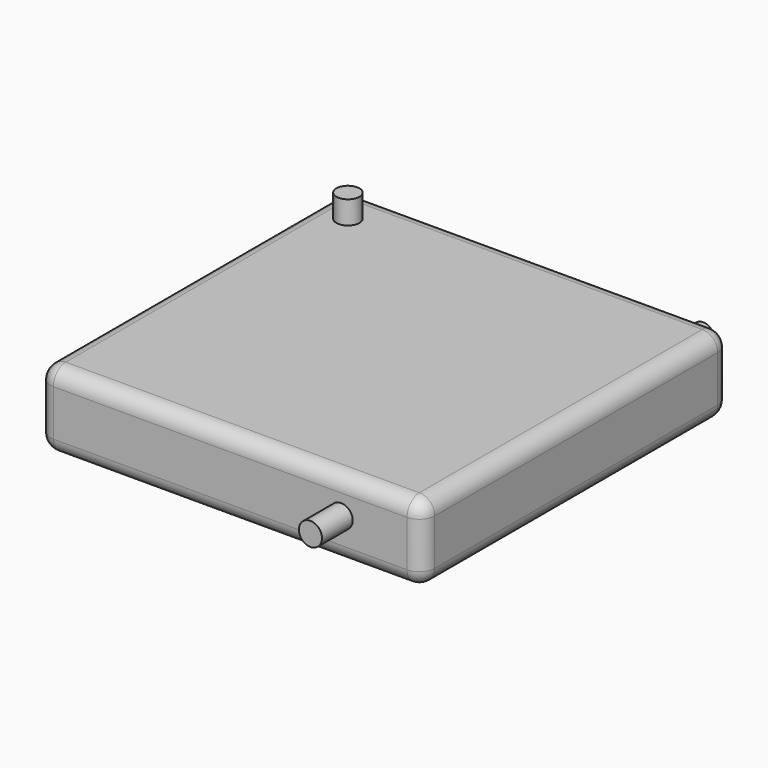
from build123d import *

# Parameters (mm, degrees)
F0_W      = 127
F0_H      = 127
F1_DEPTH  = 25.4
F2_R      = 3.81
F3_DEPTH  = 7.62
F4_R      = 5.08
F5_R      = 5.08
F6_R      = 5.08
F7_R      = 5.08
F8_R      = 5.08
F9_R      = 3.81
F10_DEPTH = 12.7
F11_R     = 3.81
F12_DEPTH = 12.7


with BuildPart() as f1:
    # F0 (on Top) → F1 (new body)
    with BuildSketch(Plane.XY):
        with Locations((-4.09049, 24.324038)):
            Rectangle(F0_W, F0_H)
    extrude(amount=F1_DEPTH)

    # F2 (on face) → F3 (join)
    with BuildSketch(Plane.XY.offset(25.4)):
        with Locations((-55.712551, 73.958889)):
            Circle(F2_R)
    extrude(amount=F3_DEPTH)

    # F4
    f4_edges = [f1.edges().sort_by_distance(p)[0] for p in [
        (59.40951, 24.324038, 25.4),
    ]]
    fillet(f4_edges, radius=F4_R)

    # F5
    f5_edges = [f1.edges().sort_by_distance(p)[0] for p in [
        (-6.63049, -39.175962, 25.4),
    ]]
    fillet(f5_edges, radius=F5_R)

    # F6
    f6_edges = [f1.edges().sort_by_distance(p)[0] for p in [
        (-67.59049, 26.864038, 25.4),
    ]]
    fillet(f6_edges, radius=F6_R)

    # F7
    f7_edges = [f1.edges().sort_by_distance(p)[0] for p in [
        (-4.09049, 87.824038, 25.4),
    ]]
    fillet(f7_edges, radius=F7_R)

    # F8
    f8_edges = [f1.edges().sort_by_distance(p)[0] for p in [
        (59.40951, 24.324038, 0),
    ]]
    fillet(f8_edges, radius=F8_R)

    # F9 (on face) → F10 (join)
    with BuildSketch(Plane.XZ.offset(39.175962)):
        with Locations((32.560311, 13.580429)):
            Circle(F9_R)
    extrude(amount=F10_DEPTH)

    # F11 (on face) → F12 (join)
    with BuildSketch(Plane(origin=(0, 87.824038, 0), x_dir=(-1, 0, 0), z_dir=(0, 1, 0))):
        with Locations((-40.414046, 11.944233)):
            Circle(F11_R)
    extrude(amount=F12_DEPTH)


solid = f1.part
